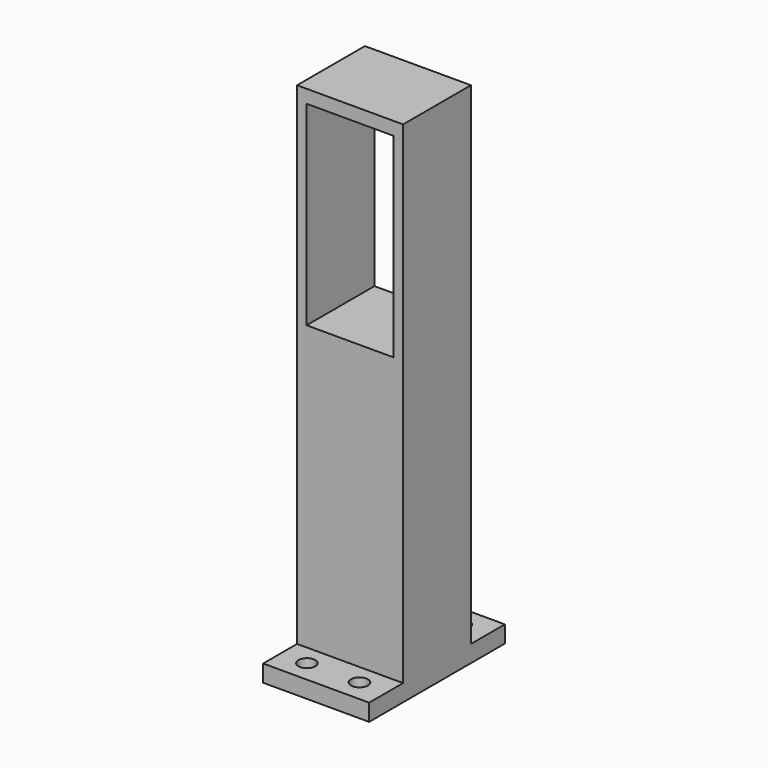
from build123d import *

# Parameters (mm, degrees)
SKETCH_W        = 25
SKETCH_H        = 120
PAD_DEPTH       = 20
SKETCH001_W     = 25
SKETCH001_H     = 4
PAD001_DEPTH    = 10
SKETCH002_R     = 2
POCKET_DEPTH    = 4
SKETCH003_W     = 25
SKETCH003_H     = 4
PAD002_DEPTH    = 10
SKETCH004_R     = 2
POCKET001_DEPTH = 4
SKETCH005_W     = 20.5
SKETCH005_H     = 46
POCKET002_DEPTH = 20


with BuildPart() as part:
    # Sketch → Pad (new body)
    with BuildSketch(Plane.XZ):
        Rectangle(SKETCH_W, SKETCH_H)
    extrude(amount=PAD_DEPTH)

    # Sketch001 → Pad001 (new body)
    with BuildSketch(Plane.XZ.offset(20)):
        with Locations((0, -58)):
            Rectangle(SKETCH001_W, SKETCH001_H)
    extrude(amount=PAD001_DEPTH)

    # Sketch002 → Pocket (cut)
    with BuildSketch(Plane(origin=(0, 0, -60), x_dir=(1, 0, 0), z_dir=(0, 0, -1))):
        with Locations((-6.290528, 24.864162)):
            Circle(SKETCH002_R)
        with Locations((6.061036, 24.804857)):
            Circle(SKETCH002_R)
    extrude(amount=-POCKET_DEPTH, mode=Mode.SUBTRACT)

    # Sketch003 → Pad002 (new body)
    with BuildSketch(Plane(origin=(0, 0, 0), x_dir=(1, 0, 0), z_dir=(0, 1, 0))):
        with Locations((0, 58)):
            Rectangle(SKETCH003_W, SKETCH003_H)
    extrude(amount=PAD002_DEPTH)

    # Sketch004 → Pocket001 (cut)
    with BuildSketch(Plane(origin=(0, 0, -60), x_dir=(1, 0, 0), z_dir=(0, 0, -1))):
        with Locations((-6.25, -5)):
            Circle(SKETCH004_R)
        with Locations((6.25, -5)):
            Circle(SKETCH004_R)
    extrude(amount=-POCKET001_DEPTH, mode=Mode.SUBTRACT)

    # Sketch005 → Pocket002 (cut)
    with BuildSketch(Plane.XZ.offset(20)):
        with Locations((0, 33.891745)):
            Rectangle(SKETCH005_W, SKETCH005_H)
    extrude(amount=-POCKET002_DEPTH, mode=Mode.SUBTRACT)


solid = part.part
